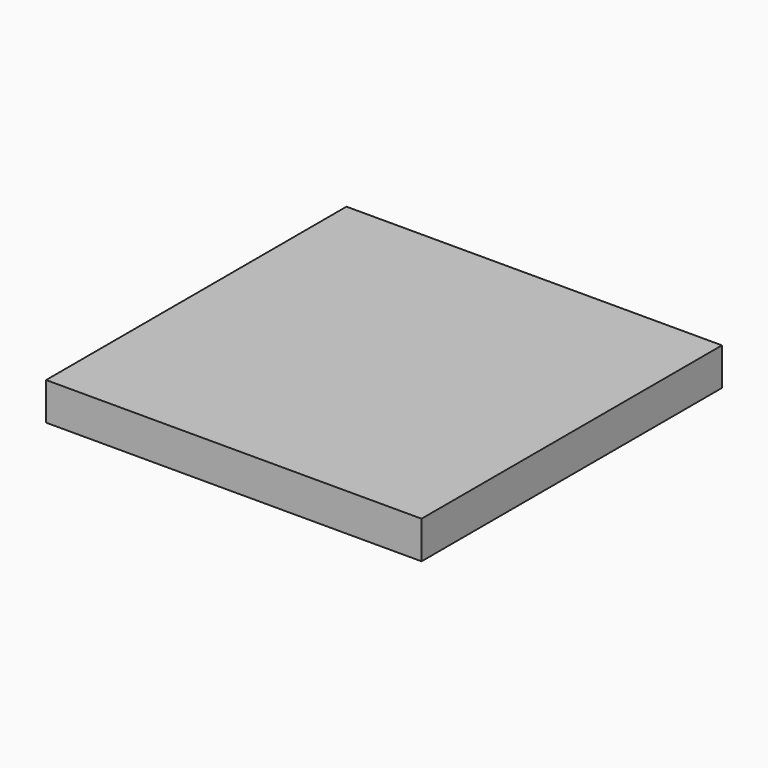
from build123d import *

# Parameters (mm, degrees)
F0_W     = 100
F0_H     = 100
F1_DEPTH = 10
F3_DEPTH = 10
F4_DEPTH = 10


with BuildPart() as f1:
    # F0 (on Top) → F1 (new body)
    with BuildSketch(Plane.XY):
        Rectangle(F0_W, F0_H)
    extrude(amount=F1_DEPTH)

    # F2 (on face) → F3 (join)
    with BuildSketch(Plane.XY.offset(10)):
        Polygon((-17.5, 7.248737), (-17.5, -7.248737), (-7.248737, -17.5), (7.248737, -17.5), (17.5, -7.248737), (17.5, 7.248737), (7.248737, 17.5), (-7.248737, 17.5), align=None)
    extrude(amount=F3_DEPTH)

    # F3_face (on face) → F4 (cut)
    with BuildSketch(Plane.XY.offset(20)):
        Polygon((-17.5, 7.248737), (-17.5, -7.248737), (-7.248737, -17.5), (7.248737, -17.5), (17.5, -7.248737), (17.5, 7.248737), (7.248737, 17.5), (-7.248737, 17.5), align=None)
    extrude(amount=-F4_DEPTH, mode=Mode.SUBTRACT)


solid = f1.part
